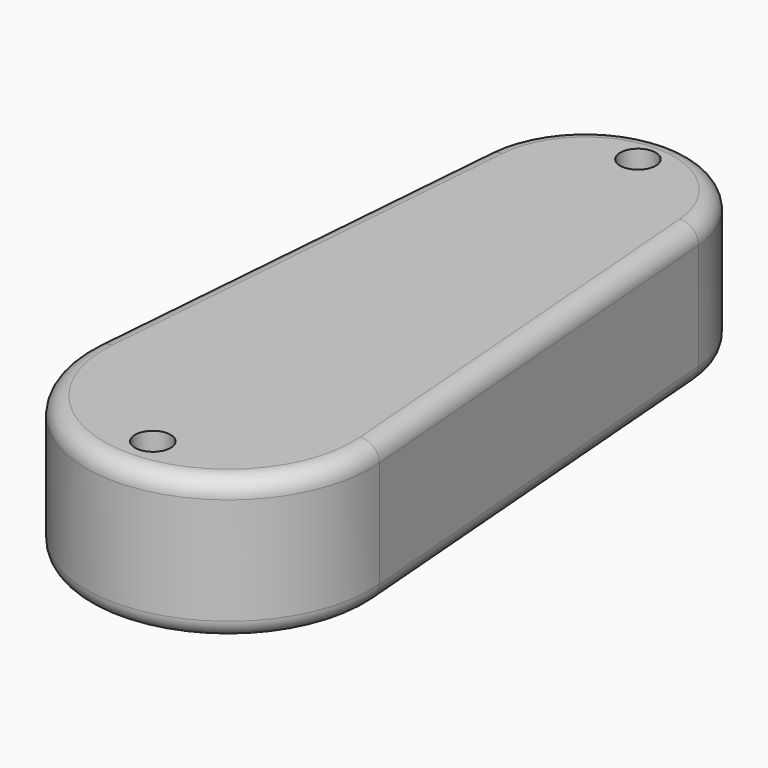
from build123d import *

# Parameters (mm, degrees)
PAD_DEPTH       = 8
SKETCH001_R     = 1
POCKET_DEPTH    = 8.001
POCKET001_DEPTH = 3
FILLET_R        = 1
FILLET001_R     = 1


with BuildPart() as part:
    # Sketch → Pad (new body)
    with BuildSketch(Plane.XY):
        with BuildLine():
            ThreePointArc((5.980892, 13.018408), (0, 18.539936), (-5.980892, 13.018408))
            Line((-5.980892, 13.018408), (-7.974522, -11.901974))
            ThreePointArc((-7.974522, -11.901974), (0, -20.539936), (7.974522, -11.901974))
            Line((7.974522, -11.901974), (5.980892, 13.018408))
        make_face()
    extrude(amount=PAD_DEPTH)

    # Sketch001 (on Face6 of Pad) → Pocket (cut, through all)
    with BuildSketch(Plane.XY.offset(8)):
        with Locations((0, 16.24)):
            Circle(SKETCH001_R)
        with Locations((0.127267, -18)):
            Circle(SKETCH001_R)
    extrude(amount=-POCKET_DEPTH, mode=Mode.SUBTRACT)

    # Sketch002 (on Face4 of Pocket) → Pocket001 (cut)
    with BuildSketch(Plane(origin=(0, 0, 0), x_dir=(1, 0, 0), z_dir=(0, 0, -1))):
        with BuildLine():
            ThreePointArc((4.993762, 9.762804), (0, 15.012492), (-4.993762, 9.762804))
            Line((-4.993762, 9.762804), (-3.995009, -10.212243))
            ThreePointArc((-3.995009, -10.212243), (0, -14.012492), (3.995009, -10.212243))
            Line((3.995009, -10.212243), (4.993762, 9.762804))
        make_face()
    extrude(amount=-POCKET001_DEPTH, mode=Mode.SUBTRACT)

    # Fillet
    fillet_edges = [part.edges().sort_by_distance(p)[0] for p in [
        (-6.977707, 0.558217, 8),
    ]]
    fillet(fillet_edges, radius=FILLET_R)

    # Fillet001
    fillet001_edges = [part.edges().sort_by_distance(p)[0] for p in [
        (-6.977707, 0.558217, 0),
    ]]
    fillet(fillet001_edges, radius=FILLET001_R)


solid = part.part
